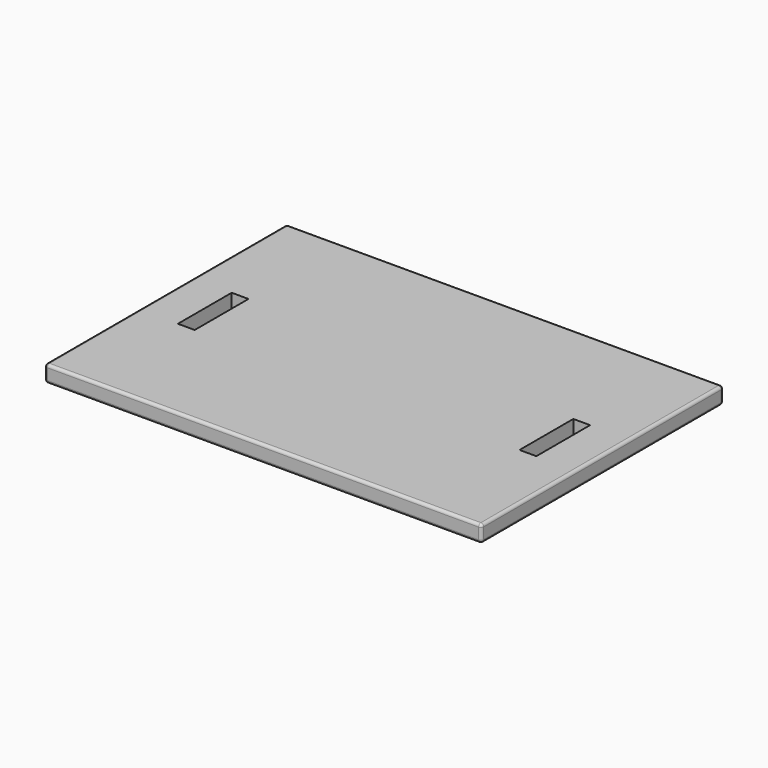
from build123d import *

# Parameters (mm, degrees)
F0_W     = 990.6
F0_H     = 685.8
F1_DEPTH = 38.1
F2_R     = 6.35
F3_W     = 38.1
F3_H     = 152.4
F4_DEPTH = 38.1


with BuildPart() as f1:
    # F0 (on Top) → F1 (new body)
    with BuildSketch(Plane.XY):
        with Locations((495.3, 342.9)):
            Rectangle(F0_W, F0_H)
    extrude(amount=F1_DEPTH)

    # F2
    f2_edges = [f1.edges().sort_by_distance(p)[0] for p in [
        (0, 342.9, 38.1),
        (495.3, 0, 38.1),
        (990.6, 342.9, 38.1),
        (495.3, 685.8, 38.1),
        (0, 342.9, 0),
        (495.3, 0, 0),
        (990.6, 342.9, 0),
        (495.3, 685.8, 0),
        (0, 0, 19.05),
        (990.6, 0, 19.05),
        (990.6, 685.8, 19.05),
        (0, 685.8, 19.05),
    ]]
    fillet(f2_edges, radius=F2_R)

    # F3 (on face) → F4 (cut, through all)
    with BuildSketch(Plane.XY.offset(38.1)):
        with Locations((107.95, 342.9)):
            Rectangle(F3_W, F3_H)
        with Locations((882.65, 342.9)):
            Rectangle(F3_W, F3_H)
    extrude(amount=-F4_DEPTH, mode=Mode.SUBTRACT)


solid = f1.part
